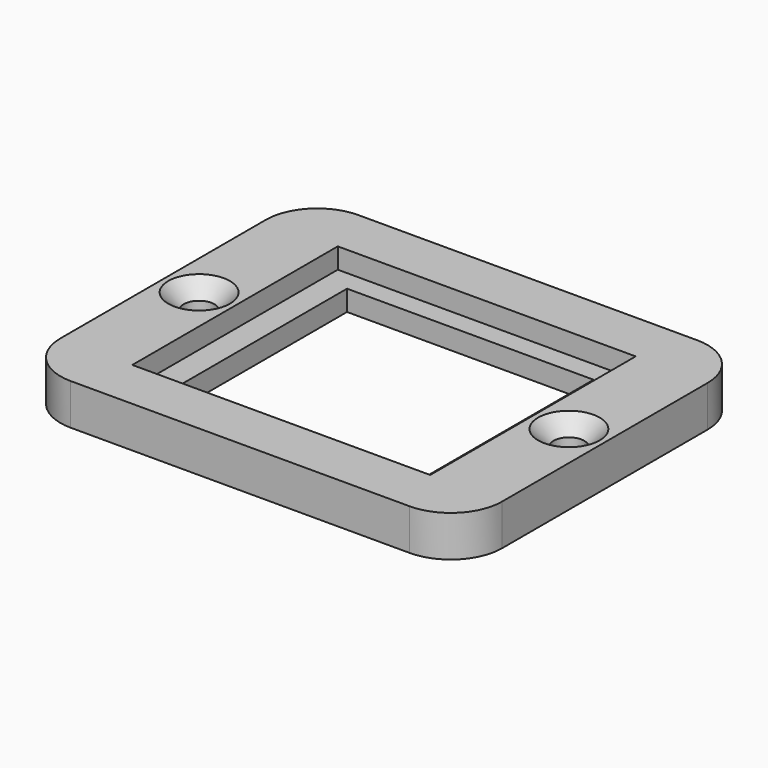
from build123d import *

# Parameters (mm, degrees)
F1_DEPTH       = 4
F2_W           = 29
F2_H           = 25
F3_DEPTH       = 2
F4_W           = 24
F4_H           = 21
F5_DEPTH       = 2
F7_D           = 3
F7_CSINK_D     = 6
F7_CSINK_ANGLE = 90
F8_D           = 3
F8_CSINK_D     = 6
F8_CSINK_ANGLE = 90


with BuildPart() as f1:
    # F0 (on Top) → F1 (new body)
    with BuildSketch(Plane.XY):
        with BuildLine():
            Line((-16.5, -17.5), (16.5, -17.5))
            ThreePointArc((16.5, -17.5), (20.035534, -16.035534), (21.5, -12.5))
            Line((21.5, -12.5), (21.5, 12.5))
            ThreePointArc((21.5, 12.5), (20.035534, 16.035534), (16.5, 17.5))
            Line((16.5, 17.5), (-16.5, 17.5))
            ThreePointArc((-16.5, 17.5), (-20.035534, 16.035534), (-21.5, 12.5))
            Line((-21.5, 12.5), (-21.5, -12.5))
            ThreePointArc((-21.5, -12.5), (-20.035534, -16.035534), (-16.5, -17.5))
        make_face()
    extrude(amount=F1_DEPTH)

    # F2 (on face) → F3 (cut)
    with BuildSketch(Plane.XY.offset(4)):
        Rectangle(F2_W, F2_H)
    extrude(amount=-F3_DEPTH, mode=Mode.SUBTRACT)

    # F4 (on face) → F5 (cut)
    with BuildSketch(Plane.XY.offset(2)):
        Rectangle(F4_W, F4_H)
    extrude(amount=-F5_DEPTH, mode=Mode.SUBTRACT)

    # F7 (through all)
    with Locations(Plane.XY.offset(4)):
        with Locations((-18, 0)):
            CounterSinkHole(F7_D / 2, F7_CSINK_D / 2, counter_sink_angle=F7_CSINK_ANGLE)

    # F8 (through all)
    with Locations(Plane.XY.offset(4)):
        with Locations((18, 0)):
            CounterSinkHole(F8_D / 2, F8_CSINK_D / 2, counter_sink_angle=F8_CSINK_ANGLE)


solid = f1.part
